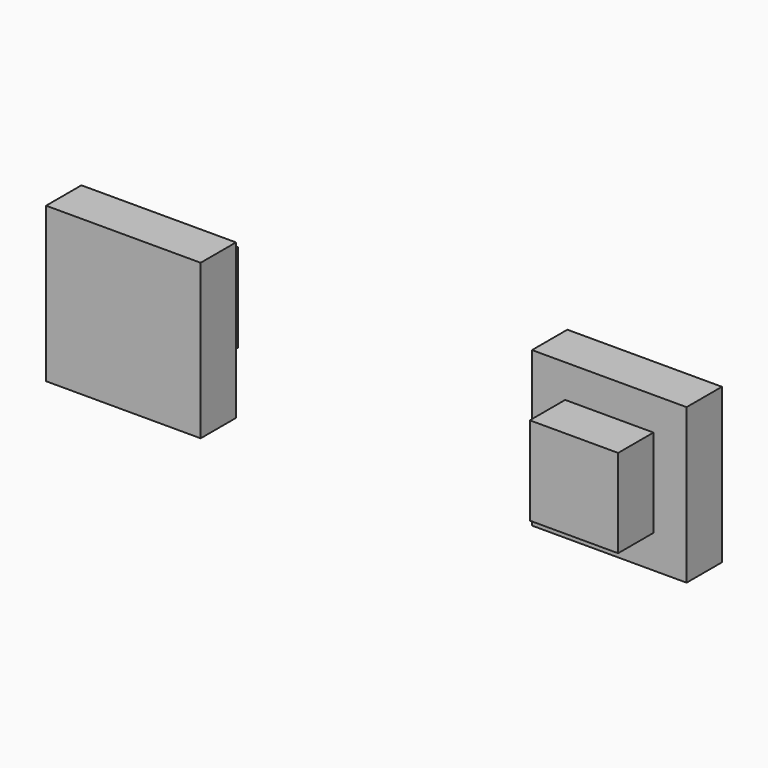
from build123d import *

# Parameters (mm, degrees)
F0_W     = 4
F0_H     = 4
F1_DEPTH = 2
F0_W_2   = 7
F0_H_2   = 7
F2_DEPTH = 2
F3_DEPTH = 2
F4_DEPTH = 2


with BuildPart() as f1:
    # F0 (on Front) → F1 (new body)
    with BuildSketch(Plane.XZ):
        with Locations((0.055232, -0.046305)):
            Rectangle(F0_W, F0_H)
    extrude(amount=F1_DEPTH)

    # F0 (on Front) → F2 (join)
    with BuildSketch(Plane.XZ):
        with Locations((0.055232, -0.046305)):
            Rectangle(F0_W_2, F0_H_2)
        with Locations((0.055232, -0.046305)):
            Rectangle(F0_W, F0_H, mode=Mode.SUBTRACT)
        with Locations((0.055232, -0.046305)):
            Rectangle(F0_W, F0_H)
    extrude(amount=-F2_DEPTH)


with BuildPart() as f3:
    # F0 (on Front) → F3 (new body)
    with BuildSketch(Plane.XZ):
        with Locations((-20.352559, -0.113686)):
            Rectangle(F0_W, F0_H)
    extrude(amount=-F3_DEPTH)

    # F0 (on Front) → F4 (join)
    with BuildSketch(Plane.XZ):
        with Locations((-20.352559, -0.113686)):
            Rectangle(F0_W_2, F0_H_2)
        with Locations((-20.352559, -0.113686)):
            Rectangle(F0_W, F0_H, mode=Mode.SUBTRACT)
        with Locations((-20.352559, -0.113686)):
            Rectangle(F0_W, F0_H)
    extrude(amount=F4_DEPTH)


solid = Compound([f1.part, f3.part])
